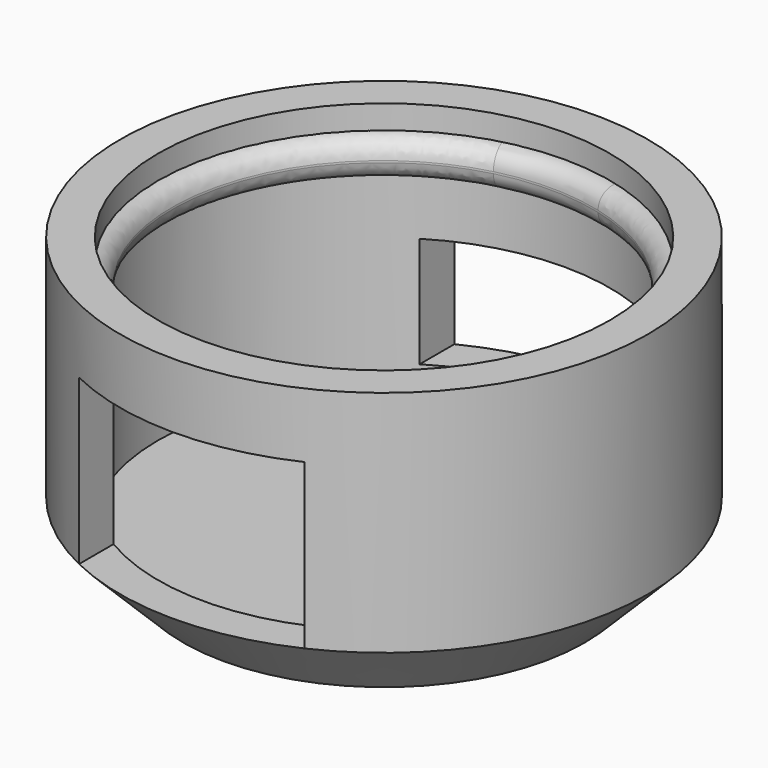
from build123d import *

# Parameters (mm, degrees)
SKETCH002_R     = 7.18617
PAD001_DEPTH    = 1.2
SKETCH005_R     = 6.669459
POCKET001_DEPTH = 5
FILLET_R        = 0.57
SKETCH007_W     = 7.178695
SKETCH007_H     = 5.2
PAD004_DEPTH    = 15
SKETCH006_W     = 7.471976
SKETCH006_H     = 3.5
PAD003_DEPTH    = 20
SKETCH_R        = 8.360127
PAD_DEPTH       = 9.25
SKETCH001_R     = 7.156563
POCKET_DEPTH    = 8
CHAMFER_SIZE    = 2


with BuildPart() as fillet_body:
    # Sketch002 → Pad001 (new body)
    with BuildSketch(Plane.XY.offset(7.3)):
        Circle(SKETCH002_R)
    extrude(amount=PAD001_DEPTH)

    # Sketch005 → Pocket001 (cut)
    with BuildSketch(Plane.XY.offset(8.5)):
        with Locations((0, -0.055028)):
            Circle(SKETCH005_R)
    extrude(amount=-POCKET001_DEPTH, mode=Mode.SUBTRACT)

    # Fillet
    fillet_edges = [fillet_body.edges().sort_by_distance(p)[0] for p in [
        (-6.669459, -0.055028, 8.5),
        (-6.669459, -0.055028, 7.3),
    ]]
    fillet(fillet_edges, radius=FILLET_R)


with BuildPart() as pad004:
    # Sketch007 → Pad004 (new body)
    with BuildSketch(Plane.XZ.offset(20)):
        with Locations((-0.051548, 4.6)):
            Rectangle(SKETCH007_W, SKETCH007_H)
    extrude(amount=-PAD004_DEPTH)


with BuildPart() as pad003:
    # Sketch006 → Pad003 (new body)
    with BuildSketch(Plane.XZ.offset(-20)):
        with Locations((-0.013385, 3.75)):
            Rectangle(SKETCH006_W, SKETCH006_H)
    extrude(amount=PAD003_DEPTH)


with BuildPart() as cut001:
    # Sketch → Pad (new body)
    with BuildSketch(Plane.XY):
        Circle(SKETCH_R)
    extrude(amount=PAD_DEPTH)

    # Sketch001 → Pocket (cut)
    with BuildSketch(Plane.XY.offset(9.25)):
        Circle(SKETCH001_R)
    extrude(amount=-POCKET_DEPTH, mode=Mode.SUBTRACT)

    # Chamfer
    chamfer_edges = [cut001.edges().sort_by_distance(p)[0] for p in [
        (-8.360127, 0, 0),
    ]]
    chamfer(chamfer_edges, length=CHAMFER_SIZE)

    # Cut: cut Pad003
    add(pad003.part, mode=Mode.SUBTRACT)

    # Cut001: cut Pad004
    add(pad004.part, mode=Mode.SUBTRACT)


solid = Compound([fillet_body.part, cut001.part])
